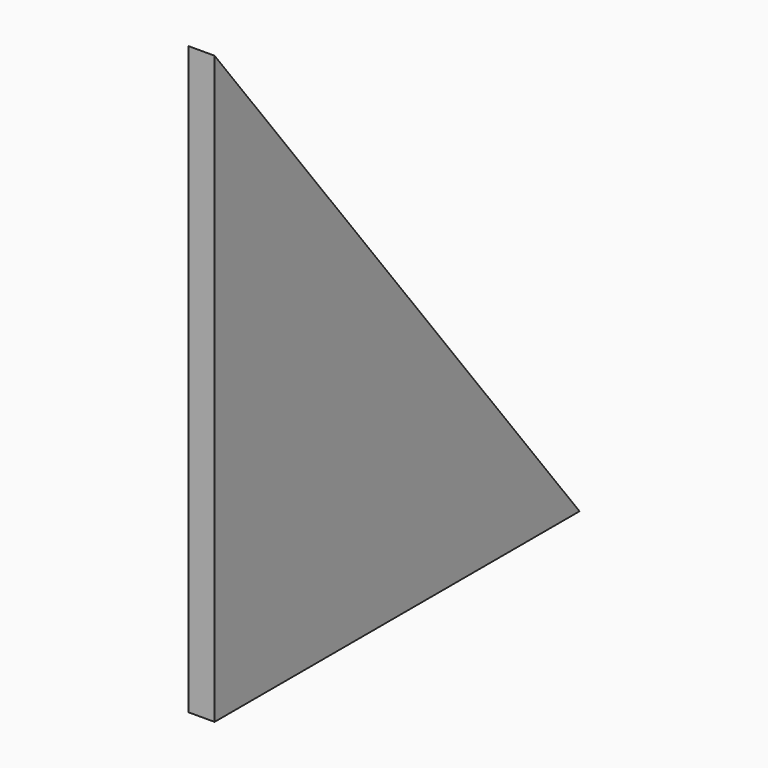
from build123d import *

# Parameters (mm, degrees)
EXTRUDE004_DEPTH = 2
SKETCH005_W      = 2
SKETCH005_H      = 35
EXTRUDE003_DEPTH = 45


with BuildPart() as extrude004:
    # Sketch006 (on Face4 of Extrude003) → Extrude004 (new body)
    with BuildSketch(Plane.YZ.offset(45)):
        Polygon((10, 50), (45, 5), (45, 50), align=None)
    extrude(amount=-EXTRUDE004_DEPTH)


with BuildPart() as cut002:
    # Sketch005 (on Face1 of CopyCut) → Extrude003 (new body)
    with BuildSketch(Plane.XY.offset(5)):
        with Locations((44, 27.5)):
            Rectangle(SKETCH005_W, SKETCH005_H)
    extrude(amount=EXTRUDE003_DEPTH)

    # Cut002: cut Extrude004
    add(extrude004.part, mode=Mode.SUBTRACT)


solid = cut002.part
